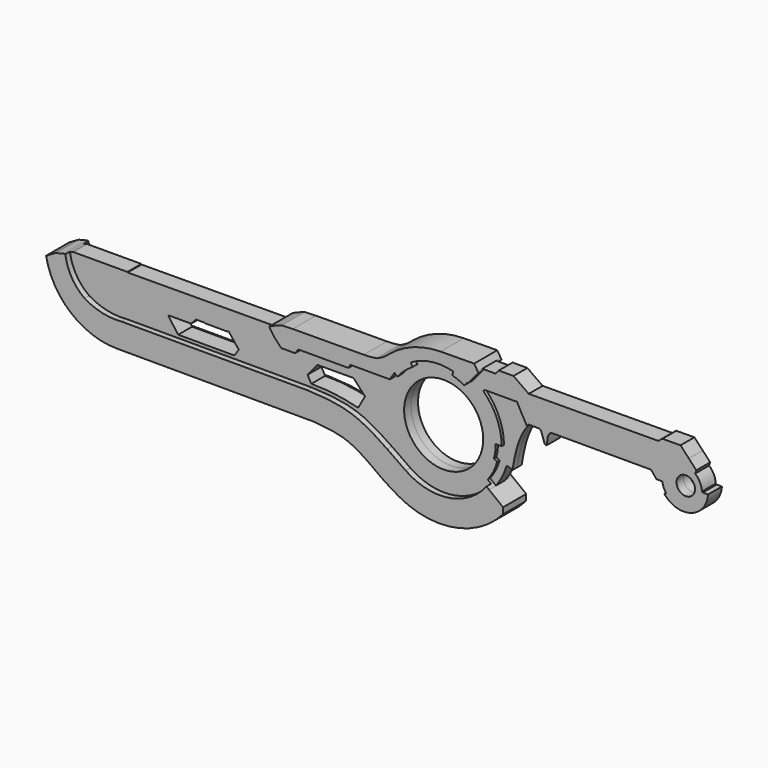
from build123d import *

# Parameters (mm, degrees)
F0_R     = 22.627187959
F0_R_2   = 22.1316792024
F0_R_3   = 21.4699350202
F0_R_4   = 20.7015554403
F0_R_5   = 17.3806710272
F0_R_6   = 4.0712731773
F1_DEPTH = 3.81
F2_DEPTH = 6.35
F3_DEPTH = 2.54


with BuildPart() as f1:
    # F0 (on Front) → F1 (new body, symmetric)
    with BuildSketch(Plane.XZ):
        with BuildLine():
            ThreePointArc((6.438693513, -7.1680178215), (1.5980402473, 6.1789344305), (3.9918815848, 20.1733112335))
            Line((3.9918815848, 20.1733112335), (-9.7144525498, 20.1733112335))
            Line((-9.7144525498, 20.1733112335), (-10.6141921133, 18.6793189496))
            Line((-10.6141921133, 18.6793189496), (-32.680042088, 18.6793189496))
            Line((-32.680042088, 18.6793189496), (-34.0500026941, 16.7613197118))
            Line((-34.0500026941, 16.7613197118), (-40.1502065361, 16.7613197118))
            Line((-40.1502065361, 16.7613197118), (-42.9159775376, 19.7080280632))
            Line((-42.9159775376, 19.7080280632), (-45.1385192573, 22.8487756103))
            Line((-45.1385192573, 22.8487756103), (-45.3493334353, 22.6777028292))
            Line((-45.3493334353, 22.6777028292), (-109.6826344728, 22.3508551717))
            Line((-109.6826344728, 22.3508551717), (-109.7693294287, 22.5665103644))
            Line((-109.7693294287, 22.5665103644), (-133.5167437792, 22.515013814))
            Line((-133.5167437792, 22.515013814), (-134.3389379142, 22.1844857923))
            Line((-134.3389379142, 22.1844857923), (-135.0316148411, 22.1829837141))
            ThreePointArc((-135.0316148411, 22.1829837141), (-132.3013167147, 14.1762172808), (-126.6271273407, 7.9019514652))
            ThreePointArc((-126.6271273407, 7.9019514652), (-118.8460281998, 4.7671926159), (-110.4768440127, 4.1936310008))
            Line((-110.4768440127, 4.1936310008), (-28.7988428026, 4.1936310008))
            add(Edge.make_bspline(
                [(-28.7988428026, 4.1936310008), (-16.9635508209, 3.8690720685), (-6.2777025544, 1.2168461065), (2.0890540493, -4.1909821739), (6.438693513, -7.1680178215)],
                knots=[0, 0, 0, 0, 0.4074384475, 0.7222845178, 0.7222845178, 0.7222845178, 0.7222845178], degree=3))
        make_face()
        Polygon((-91.8230488896, 11.4014744759), (-91.6419103742, 11.6289313883), (-81.7503854632, 11.6289313883), (-79.7071989096, 13.9337721542), (-75.8017674088, 13.9337721542), (-75.6851434708, 13.7645276263), (-65.5986443162, 13.7645276263), (-65.4838383198, 13.9337721542), (-65.2193203568, 13.9337721542), (-60.830798, 8.3527415991), (-62.7620667219, 5.5128578097), (-87.2872361589, 5.5128578097), (-87.4543786049, 5.5128578097), align=None, mode=Mode.SUBTRACT)
        with BuildLine():
            Line((-28.9484057575, 5.5326987058), (-30.5999964476, 8.50945618))
            Line((-30.5999964476, 8.50945618), (-26.3636671007, 13.7323280796))
            Line((-26.3636671007, 13.7323280796), (-10.4037809189, 13.8196069528))
            Line((-10.4037809189, 13.8196069528), (-5.5302092806, 8.567487821))
            Line((-5.5302092806, 8.567487821), (-5.3245549407, 8.3458595834))
            Line((-5.3245549407, 8.3458595834), (-8.3339428529, 2.9662209563))
            ThreePointArc((-8.3339428529, 2.9662209563), (-18.5559436761, 4.9340493009), (-28.9484057575, 5.5326987058))
        make_face(mode=Mode.SUBTRACT)
        with BuildLine():
            ThreePointArc((14.4933656171, -12.7787657597), (4.2316646637, 2.1573823494), (6.1854643553, 20.1733112335))
            Line((6.1854643553, 20.1733112335), (3.9918815848, 20.1733112335))
            ThreePointArc((3.9918815848, 20.1733112335), (1.5980402473, 6.1789344305), (6.438693513, -7.1680178215))
            add(Edge.make_bspline(
                [(6.438693513, -7.1680178215), (10.07432874, -9.6563655944), (14.2007901739, -12.5776936714), (14.4933656171, -12.7787657597)],
                knots=[0.7222845178, 0.7222845178, 0.7222845178, 0.7222845178, 0.9854478153, 0.9854478153, 0.9854478153, 0.9854478153], degree=3))
        make_face()
        with BuildLine():
            ThreePointArc((48.6186154097, -6.3059344288), (15.9533093068, -11.9092340602), (7.6388954955, 20.1733112335))
            Line((7.6388954955, 20.1733112335), (6.1854643553, 20.1733112335))
            ThreePointArc((6.1854643553, 20.1733112335), (4.2316646637, 2.1573823494), (14.4933656171, -12.7787657597))
            add(Edge.make_bspline(
                [(14.4933656171, -12.7787657597), (14.5095442101, -12.7898844764), (14.5139996361, -12.792685258), (14.517912058, -12.7960406415)],
                knots=[0.9854478153, 0.9854478153, 0.9854478153, 0.9854478153, 1, 1, 1, 1], degree=3))
            ThreePointArc((14.517912058, -12.7960406415), (33.3775870942, -17.2485257483), (50.0989071862, -7.4551902348))
            Line((50.0989071862, -7.4551902348), (48.6186154097, -6.3059344288))
        make_face()
        with BuildLine():
            Line((35.0593402982, 30.667712912), (35.480485729, 32.3245153247))
            ThreePointArc((35.480485729, 32.3245153247), (25.8674446614, 32.9000720883), (16.776211561, 29.7233906647))
            Line((16.776211561, 29.7233906647), (17.6510736346, 28.2685998827))
            ThreePointArc((17.6510736346, 28.2685998827), (14.0307071089, 25.599153939), (10.937823914, 22.3331060261))
            Line((10.937823914, 22.3331060261), (9.6641291915, 23.3535357081))
            ThreePointArc((9.6641291915, 23.3535357081), (8.5901973433, 21.8024701499), (7.6388954955, 20.1733112335))
            ThreePointArc((7.6388954955, 20.1733112335), (15.9533093068, -11.9092340602), (48.6186154097, -6.3059344288))
            ThreePointArc((48.6186154097, -6.3059344288), (51.1167501123, -2.3334587256), (52.8110181441, 2.0426920993))
            Line((52.8110181441, 2.0426920993), (51.3243749738, 2.6516125072))
            ThreePointArc((51.3243749738, 2.6516125072), (51.933099028, 5.5979147314), (52.11180076, 8.6011309177))
            Line((52.11180076, 8.6011309177), (53.7201982867, 8.6011309177))
            ThreePointArc((53.7201982867, 8.6011309177), (53.7202388654, 8.626865421), (53.7202523916, 8.6525999528))
            ThreePointArc((53.7202523916, 8.6525999528), (50.4316669526, 20.9081987486), (41.4494428783, 29.8711305632))
            Line((41.4494428783, 29.8711305632), (40.3036386715, 28.5190810761))
            ThreePointArc((40.3036386715, 28.5190810761), (37.7509637594, 29.7629671451), (35.0593402982, 30.667712912))
        make_face()
        with Locations((29.2394385249, 8.6525999528)):
            Circle(F0_R, mode=Mode.SUBTRACT)
        with Locations((29.2394385249, 8.6525999528)):
            Circle(F0_R)
        with Locations((29.2394385249, 8.6525999528)):
            Circle(F0_R_2, mode=Mode.SUBTRACT)
        with Locations((29.2394385249, 8.6525999528)):
            Circle(F0_R_2)
        with Locations((29.2394385249, 8.6525999528)):
            Circle(F0_R_3, mode=Mode.SUBTRACT)
        with Locations((29.2394385249, 8.6525999528)):
            Circle(F0_R_3)
        with Locations((29.2394385249, 8.6525999528)):
            Circle(F0_R_4, mode=Mode.SUBTRACT)
        with Locations((29.2394385249, 8.6525999528)):
            Circle(F0_R_4)
        with Locations((29.2394385249, 8.6525999528)):
            Circle(F0_R_5, mode=Mode.SUBTRACT)
        with BuildLine():
            Line((41.5026449711, 29.933909057), (41.4494428783, 29.8711305632))
            ThreePointArc((41.4494428783, 29.8711305632), (50.4316669526, 20.9081987486), (53.7202523916, 8.6525999528))
            ThreePointArc((53.7202523916, 8.6525999528), (53.7202388654, 8.626865421), (53.7201982867, 8.6011309177))
            Line((53.7201982867, 8.6011309177), (54.7499135137, 8.6011309177))
            ThreePointArc((54.7499135137, 8.6011309177), (52.5924772829, 18.8065826623), (46.6655828059, 27.3901540786))
            Line((46.6655828059, 27.3901540786), (47.1019655473, 27.7646146056))
            ThreePointArc((47.1019655473, 27.7646146056), (45.059012757, 29.4508962308), (42.8554681266, 30.9211318869))
            Line((42.8554681266, 30.9211318869), (41.9882535934, 29.8978183419))
            Line((41.9882535934, 29.8978183419), (41.5026449711, 29.933909057))
        make_face()
        with BuildLine():
            Line((43.9345613302, 32.1944623598), (42.8554681266, 30.9211318869))
            ThreePointArc((42.8554681266, 30.9211318869), (45.059012757, 29.4508962308), (47.1019655473, 27.7646146056))
            Line((47.1019655473, 27.7646146056), (47.3445020616, 27.9727354646))
            Line((47.3445020616, 27.9727354646), (49.1617447082, 27.9727354646))
            ThreePointArc((49.1617447082, 27.9727354646), (46.6763918695, 30.2423794309), (43.9345613302, 32.1944623598))
        make_face()
        with BuildLine():
            Line((46.5576313436, 35.2896861732), (43.9345613302, 32.1944623598))
            ThreePointArc((43.9345613302, 32.1944623598), (46.6763918695, 30.2423794309), (49.1617447082, 27.9727354646))
            Line((49.1617447082, 27.9727354646), (61.5066476166, 27.9727354646))
            Line((61.5066476166, 27.9727354646), (63.5131243696, 24.1834866147))
            Line((63.5131243696, 24.1834866147), (65.9026950598, 19.9312251061))
            ThreePointArc((65.9026950598, 19.9312251061), (66.1834613332, 20.5648145157), (66.8258592486, 20.8247955889))
            Line((66.8258592486, 20.8247955889), (70.8972588181, 20.8247955889))
            ThreePointArc((70.8972588181, 20.8247955889), (71.6359923211, 20.6075183425), (72.1048787236, 19.9967138469))
            Line((72.1048787236, 19.9967138469), (73.7265348434, 15.4077662155))
            Line((73.7265348434, 15.4077662155), (74.5546147227, 15.4077662155))
            Line((74.5546147227, 15.4077662155), (75.0992596149, 19.2545391619))
            ThreePointArc((75.0992596149, 19.2545391619), (75.6626751204, 20.1211647344), (76.3741061091, 20.8710599691))
            Line((76.3741061091, 20.8710599691), (120.4125583172, 20.8710599691))
            Line((120.4125583172, 20.8710599691), (122.7708831429, 17.9721649988))
            Line((122.7708831429, 17.9721649988), (124.1421728219, 17.9721649988))
            ThreePointArc((124.1421728219, 17.9721649988), (127.1513622479, 27.7855217832), (137.0150139891, 30.6255159218))
            Line((137.0150139891, 30.6255159218), (133.3591133245, 34.5252845181))
            Line((133.3591133245, 34.5252845181), (125.4016614904, 34.4817680781))
            Line((125.4016614904, 34.4817680781), (125.113517046, 34.3035832047))
            Line((125.113517046, 34.3035832047), (123.59249931, 33.056609952))
            Line((123.59249931, 33.056609952), (66.6289553046, 32.7450968325))
            Line((66.6289553046, 32.7450968325), (59.9469318986, 37.4827608466))
            Line((59.9469318986, 37.4827608466), (53.4292198718, 37.4827608466))
            Line((53.4292198718, 37.4827608466), (52.0325675607, 35.8279079009))
            Line((52.0325675607, 35.8279079009), (46.224801847, 35.8279079009))
            Line((46.224801847, 35.8279079009), (46.5576313436, 35.2896861732))
        make_face()
        with BuildLine():
            Line((140.3075903654, 27.1133072674), (137.0150139891, 30.6255159218))
            ThreePointArc((137.0150139891, 30.6255159218), (127.1513622479, 27.7855217832), (124.1421728219, 17.9721649988))
            Line((124.1421728219, 17.9721649988), (125.3493192011, 17.9721649988))
            ThreePointArc((125.3493192011, 17.9721649988), (129.9150503301, 26.8522704179), (139.832302928, 25.6902575493))
            Line((139.832302928, 25.6902575493), (140.3075903654, 27.1133072674))
        make_face()
        with BuildLine():
            ThreePointArc((139.832302928, 25.6902575493), (129.9150503301, 26.8522704179), (125.3493192011, 17.9721649988))
            Line((125.3493192011, 17.9721649988), (126.2641102076, 19.5050753477))
            Line((126.2641102076, 19.5050753477), (129.2351332996, 19.5050753477))
            ThreePointArc((129.2351332996, 19.5050753477), (135.8206585871, 26.018716846), (142.3583489552, 19.4570651079))
            ThreePointArc((142.3583489552, 19.4570651079), (137.7001908084, 13.1775432499), (130.339384079, 15.8137064427))
            Line((130.339384079, 15.8137064427), (127.0304404289, 13.8570424686))
            ThreePointArc((127.0304404289, 13.8570424686), (136.8098312436, 10.8086583065), (142.7976369625, 19.1198142657))
            ThreePointArc((142.7976369625, 19.1198142657), (142.7931274615, 19.4008894741), (142.7796036005, 19.6816753596))
            ThreePointArc((142.7796036005, 19.6816753596), (141.9022360555, 22.978452205), (139.832302928, 25.6902575493))
        make_face()
        with BuildLine():
            Line((126.2641102076, 19.5050753477), (125.3493192011, 17.9721649988))
            ThreePointArc((125.3493192011, 17.9721649988), (125.924569743, 15.8062185299), (127.0304404289, 13.8570424686))
            Line((127.0304404289, 13.8570424686), (130.339384079, 15.8137064427))
            ThreePointArc((130.339384079, 15.8137064427), (129.510209577, 17.5765133216), (129.2351332996, 19.5050753477))
            Line((129.2351332996, 19.5050753477), (126.2641102076, 19.5050753477))
        make_face()
        with BuildLine():
            ThreePointArc((126.2641102076, 13.4038915858), (137.9244466513, 9.8189310549), (145.4573764633, 19.4142609835))
            Line((145.4573764633, 19.4142609835), (143.1115716696, 19.4142609835))
            Line((143.1115716696, 19.4142609835), (142.7796036005, 19.6816753596))
            ThreePointArc((142.7796036005, 19.6816753596), (142.7931274615, 19.4008894741), (142.7976369625, 19.1198142657))
            ThreePointArc((142.7976369625, 19.1198142657), (136.8098312436, 10.8086583065), (127.0304404289, 13.8570424686))
            Line((127.0304404289, 13.8570424686), (126.2641102076, 13.4038915858))
        make_face()
        with BuildLine():
            ThreePointArc((129.2351332996, 19.5050753477), (129.510209577, 17.5765133216), (130.339384079, 15.8137064427))
            ThreePointArc((130.339384079, 15.8137064427), (137.7001908084, 13.1775432499), (142.3583489552, 19.4570651079))
            ThreePointArc((142.3583489552, 19.4570651079), (135.8206585871, 26.018716846), (129.2351332996, 19.5050753477))
        make_face()
        with Locations((135.6700635963, 19.6358357612)):
            Circle(F0_R_6, mode=Mode.SUBTRACT)
    extrude(amount=F1_DEPTH, both=True)


with BuildPart() as f2:
    # F0 (on Front) → F2 (new body, symmetric)
    with BuildSketch(Plane.XZ):
        with BuildLine():
            Line((-9.7144525498, 20.1733112335), (3.9918815848, 20.1733112335))
            ThreePointArc((3.9918815848, 20.1733112335), (21.2415959944, 35.2270319263), (43.9345613302, 32.1944623598))
            Line((43.9345613302, 32.1944623598), (46.5576313436, 35.2896861732))
            Line((46.5576313436, 35.2896861732), (46.224801847, 35.8279079009))
            Line((46.224801847, 35.8279079009), (44.6750484407, 38.3340287954))
            Line((44.6750484407, 38.3340287954), (29.9250874668, 38.1958112121))
            ThreePointArc((29.9250874668, 38.1958112121), (17.9869057579, 36.0314075035), (7.4537172914, 30.0100483))
            ThreePointArc((7.4537172914, 30.0100483), (4.8437173965, 27.9655848022), (1.878017094, 26.4835078269))
            ThreePointArc((1.878017094, 26.4835078269), (-0.976977625, 26.107331941), (-3.8538333029, 25.9800348431))
            Line((-3.8538333029, 25.9800348431), (-35.0556187332, 25.8094035089))
            Line((-35.0556187332, 25.8094035089), (-39.9319119751, 25.6281215698))
            ThreePointArc((-39.9319119751, 25.6281215698), (-42.6235345812, 24.6355429341), (-45.2618263662, 23.5088393092))
            Line((-45.2618263662, 23.5088393092), (-45.1385192573, 22.8487756103))
            Line((-45.1385192573, 22.8487756103), (-42.9159775376, 19.7080280632))
            Line((-42.9159775376, 19.7080280632), (-40.1502065361, 16.7613197118))
            Line((-40.1502065361, 16.7613197118), (-34.0500026941, 16.7613197118))
            Line((-34.0500026941, 16.7613197118), (-32.680042088, 18.6793189496))
            Line((-32.680042088, 18.6793189496), (-10.6141921133, 18.6793189496))
            Line((-10.6141921133, 18.6793189496), (-9.7144525498, 20.1733112335))
        make_face()
        with BuildLine():
            Line((3.9918815848, 20.1733112335), (6.1854643553, 20.1733112335))
            ThreePointArc((6.1854643553, 20.1733112335), (22.1762962295, 33.5451893279), (42.8554681266, 30.9211318869))
            Line((42.8554681266, 30.9211318869), (43.9345613302, 32.1944623598))
            ThreePointArc((43.9345613302, 32.1944623598), (21.2415959944, 35.2270319263), (3.9918815848, 20.1733112335))
        make_face()
        with BuildLine():
            ThreePointArc((16.776211561, 29.7233906647), (25.8674446614, 32.9000720883), (35.480485729, 32.3245153247))
            ThreePointArc((35.480485729, 32.3245153247), (38.5461619059, 31.2953724748), (41.4494428783, 29.8711305632))
            Line((41.4494428783, 29.8711305632), (41.5026449711, 29.933909057))
            Line((41.5026449711, 29.933909057), (41.9882535934, 29.8978183419))
            Line((41.9882535934, 29.8978183419), (42.8554681266, 30.9211318869))
            ThreePointArc((42.8554681266, 30.9211318869), (22.1762962295, 33.5451893279), (6.1854643553, 20.1733112335))
            Line((6.1854643553, 20.1733112335), (7.6388954955, 20.1733112335))
            ThreePointArc((7.6388954955, 20.1733112335), (8.5901973433, 21.8024701499), (9.6641291915, 23.3535357081))
            ThreePointArc((9.6641291915, 23.3535357081), (12.906627528, 26.8885406337), (16.776211561, 29.7233906647))
        make_face()
        with BuildLine():
            Line((17.6510736346, 28.2685998827), (16.776211561, 29.7233906647))
            ThreePointArc((16.776211561, 29.7233906647), (12.906627528, 26.8885406337), (9.6641291915, 23.3535357081))
            Line((9.6641291915, 23.3535357081), (10.937823914, 22.3331060261))
            ThreePointArc((10.937823914, 22.3331060261), (14.0307071089, 25.599153939), (17.6510736346, 28.2685998827))
        make_face()
        with BuildLine():
            ThreePointArc((41.4494428783, 29.8711305632), (38.5461619059, 31.2953724748), (35.480485729, 32.3245153247))
            Line((35.480485729, 32.3245153247), (35.0593402982, 30.667712912))
            ThreePointArc((35.0593402982, 30.667712912), (37.7509637594, 29.7629671451), (40.3036386715, 28.5190810761))
            Line((40.3036386715, 28.5190810761), (41.4494428783, 29.8711305632))
        make_face()
    extrude(amount=F2_DEPTH, both=True)


with BuildPart() as f2b:
    # F0 (on Front) → F2, piece 2 (new body, symmetric)
    with BuildSketch(Plane.XZ):
        with BuildLine():
            Line((57.3968291283, -13.1210861728), (51.2023948523, -8.3119062061))
            ThreePointArc((51.2023948523, -8.3119062061), (28.5305008485, -19.0902068127), (6.438693513, -7.1680178215))
            add(Edge.make_bspline(
                [(-28.7988428026, 4.1936310008), (-16.9635508209, 3.8690720685), (-6.2777025544, 1.2168461065), (2.0890540493, -4.1909821739), (6.438693513, -7.1680178215)],
                knots=[0, 0, 0, 0, 0.4074384475, 0.7222845178, 0.7222845178, 0.7222845178, 0.7222845178], degree=3))
            Line((-28.7988428026, 4.1936310008), (-110.4768440127, 4.1936310008))
            ThreePointArc((-110.4768440127, 4.1936310008), (-118.8460281998, 4.7671926159), (-126.6271273407, 7.9019514652))
            ThreePointArc((-126.6271273407, 7.9019514652), (-132.3013167147, 14.1762172808), (-135.0316148411, 22.1829837141))
            Line((-135.0316148411, 22.1829837141), (-135.724291768, 22.181481636))
            Line((-135.724291768, 22.181481636), (-139.2865329981, 21.3250480592))
            Line((-139.2865329981, 21.3250480592), (-143.5068845749, 18.8811644912))
            ThreePointArc((-143.5068845749, 18.8811644912), (-132.6474549614, 0.3781108337), (-112.4771035834, -6.9326436738))
            Line((-112.4771035834, -6.9326436738), (-26.0000433773, -7.0668738335))
            add(Edge.make_bspline(
                [(-26.0000433773, -7.0668738335), (-21.0027274074, -7.4760569743), (-11.2160363878, -8.2773969321), (-3.6853431219, -13.6084127487), (0, -16.2172857672)],
                knots=[0, 0, 0, 0, 0.5106236582, 1, 1, 1, 1], degree=3))
            add(Edge.make_bspline(
                [(0, -16.2172857672), (1.5772939464, -17.4265076795), (4.9175880582, -19.9873219415), (9.2156824556, -22.4875958061), (11.4842075855, -23.8072350621)],
                knots=[0, 0, 0, 0, 0.4722021156, 1, 1, 1, 1], degree=3))
            ThreePointArc((11.4842075855, -23.8072350621), (35.8555043583, -27.9428350658), (57.3968291283, -15.8170517534))
            Line((57.3968291283, -15.8170517534), (57.3968291283, -13.1210861728))
        make_face()
        with BuildLine():
            Line((51.2023948523, -8.3119062061), (50.0989071862, -7.4551902348))
            ThreePointArc((50.0989071862, -7.4551902348), (33.3775870942, -17.2485257483), (14.517912058, -12.7960406415))
            ThreePointArc((14.517912058, -12.7960406415), (14.5056363511, -12.7874067336), (14.4933656171, -12.7787657597))
            add(Edge.make_bspline(
                [(6.438693513, -7.1680178215), (10.07432874, -9.6563655944), (14.2007901739, -12.5776936714), (14.4933656171, -12.7787657597)],
                knots=[0.7222845178, 0.7222845178, 0.7222845178, 0.7222845178, 0.9854478153, 0.9854478153, 0.9854478153, 0.9854478153], degree=3))
            ThreePointArc((6.438693513, -7.1680178215), (28.5305008485, -19.0902068127), (51.2023948523, -8.3119062061))
        make_face()
    extrude(amount=F2_DEPTH, both=True)


with BuildPart() as f3:
    # F0 (on Front) → F3 (new body, symmetric)
    with BuildSketch(Plane.XZ):
        with BuildLine():
            Line((61.5066476166, 27.9727354646), (49.1617447082, 27.9727354646))
            ThreePointArc((49.1617447082, 27.9727354646), (54.9595380468, 19.0757664792), (56.9913018832, 8.6525999528))
            ThreePointArc((56.9913018832, 8.6525999528), (56.7111291921, 4.7191368803), (55.8762681615, 0.8650954251))
            Line((55.8762681615, 0.8650954251), (56.122161448, 0.9428608464))
            Line((56.122161448, 0.9428608464), (58.6404502392, 0.2031943441))
            add(Edge.make_bspline(
                [(65.9026950598, 19.9312251061), (65.125749332, 19.2596291972), (64.9620759709, 19.0821163473), (63.4089576114, 16.8505531304), (62.0381805803, 14.0255410325), (60.597197716, 10.2555423213), (59.6877587396, 6.5771666633), (59.0504737233, 3.5623296346), (58.7921923935, 2.1424146166), (58.6023563705, 0.8687571351), (58.6404502392, 0.2031943441)],
                knots=[0, 0, 0, 0, 0.0958615191, 0.2128935559, 0.3542087519, 0.5104909794, 0.6647152572, 0.7989969752, 0.8923631668, 1, 1, 1, 1], degree=3))
            Line((65.9026950598, 19.9312251061), (63.5131243696, 24.1834866147))
            Line((63.5131243696, 24.1834866147), (61.5066476166, 27.9727354646))
        make_face()
        with BuildLine():
            ThreePointArc((55.5755303155, 8.5300983585), (55.3204838326, 4.8925500057), (54.5603351895, 1.3261819979))
            Line((54.5603351895, 1.3261819979), (55.7689294219, 0.83114882))
            Line((55.7689294219, 0.83114882), (55.8762681615, 0.8650954251))
            ThreePointArc((55.8762681615, 0.8650954251), (56.7111291921, 4.7191368803), (56.9913018832, 8.6525999528))
            ThreePointArc((56.9913018832, 8.6525999528), (54.9595380468, 19.0757664792), (49.1617447082, 27.9727354646))
            Line((49.1617447082, 27.9727354646), (47.3445020616, 27.9727354646))
            Line((47.3445020616, 27.9727354646), (47.1019655473, 27.7646146056))
            ThreePointArc((47.1019655473, 27.7646146056), (53.3632648798, 19.0392362292), (55.5755303155, 8.5300983585))
        make_face()
        with BuildLine():
            Line((54.7499135137, 8.6011309177), (53.7201982867, 8.6011309177))
            ThreePointArc((53.7201982867, 8.6011309177), (53.4883582932, 5.2910322165), (52.8110181441, 2.0426920993))
            Line((52.8110181441, 2.0426920993), (54.5603351895, 1.3261819979))
            ThreePointArc((54.5603351895, 1.3261819979), (55.3204838326, 4.8925500057), (55.5755303155, 8.5300983585))
            ThreePointArc((55.5755303155, 8.5300983585), (53.3632648798, 19.0392362292), (47.1019655473, 27.7646146056))
            Line((47.1019655473, 27.7646146056), (46.6655828059, 27.3901540786))
            ThreePointArc((46.6655828059, 27.3901540786), (52.5924772829, 18.8065826623), (54.7499135137, 8.6011309177))
        make_face()
        with BuildLine():
            ThreePointArc((52.8110181441, 2.0426920993), (53.4883582932, 5.2910322165), (53.7201982867, 8.6011309177))
            Line((53.7201982867, 8.6011309177), (52.11180076, 8.6011309177))
            ThreePointArc((52.11180076, 8.6011309177), (51.933099028, 5.5979147314), (51.3243749738, 2.6516125072))
            Line((51.3243749738, 2.6516125072), (52.8110181441, 2.0426920993))
        make_face()
        with BuildLine():
            ThreePointArc((54.5603351895, 1.3261819979), (52.748150859, -3.2771405887), (50.0989071862, -7.4551902348))
            Line((50.0989071862, -7.4551902348), (51.2023948523, -8.3119062061))
            ThreePointArc((51.2023948523, -8.3119062061), (53.9687559169, -3.9421124768), (55.8762681615, 0.8650954251))
            Line((55.8762681615, 0.8650954251), (55.7689294219, 0.83114882))
            Line((55.7689294219, 0.83114882), (54.5603351895, 1.3261819979))
        make_face()
        with BuildLine():
            ThreePointArc((52.8110181441, 2.0426920993), (51.1167501123, -2.3334587256), (48.6186154097, -6.3059344288))
            Line((48.6186154097, -6.3059344288), (50.0989071862, -7.4551902348))
            ThreePointArc((50.0989071862, -7.4551902348), (52.748150859, -3.2771405887), (54.5603351895, 1.3261819979))
            Line((54.5603351895, 1.3261819979), (52.8110181441, 2.0426920993))
        make_face()
    extrude(amount=F3_DEPTH, both=True)


solid = Compound([f1.part, f2.part, f2b.part, f3.part])
